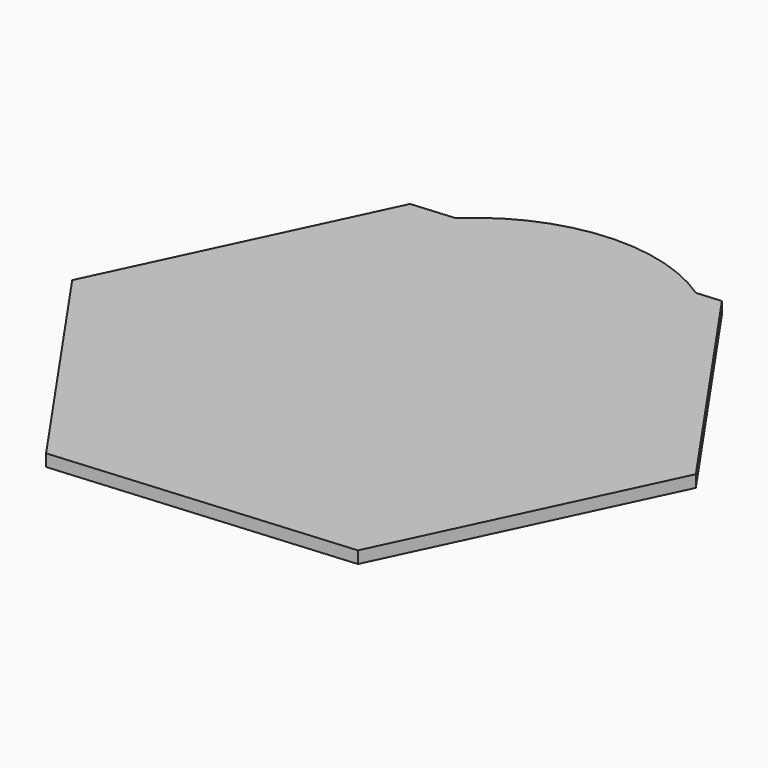
from build123d import *

# Parameters (mm, degrees)
F1_DEPTH = 2.54


with BuildPart() as f1:
    # F0 (on Top) → F1 (new body)
    with BuildSketch(Plane.XY):
        with BuildLine():
            ThreePointArc((-26.1758851748, 27.6845270018), (-15.0716418289, -34.9922221727), (38.1, 0))
            ThreePointArc((38.1, 0), (33.6457524536, 17.8766143839), (21.3244964919, 31.5733408015))
            Line((21.3244964919, 31.5733408015), (-26.1758851748, 27.6845270018))
        make_face()
        with BuildLine():
            ThreePointArc((21.3244964919, 31.5733408015), (33.6457524536, 17.8766143839), (38.1, 0))
            ThreePointArc((38.1, 0), (-15.0716418289, -34.9922221727), (-26.1758851748, 27.6845270018))
            Line((-26.1758851748, 27.6845270018), (-35.2166528413, 26.944367432))
            Line((-35.2166528413, 26.944367432), (-61.6861237744, -29.0024767323))
            Line((-61.6861237744, -29.0024767323), (-26.4694709331, -79.8991330672))
            Line((-26.4694709331, -79.8991330672), (35.2166528413, -74.8489452379))
            Line((35.2166528413, -74.8489452379), (61.6861237744, -18.9021010736))
            Line((61.6861237744, -18.9021010736), (26.4694709331, 31.9945552613))
            Line((26.4694709331, 31.9945552613), (21.3244964919, 31.5733408015))
        make_face()
        with BuildLine():
            Line((-26.1758851748, 27.6845270018), (21.3244964919, 31.5733408015))
            ThreePointArc((21.3244964919, 31.5733408015), (-3.108811868, 37.9729547016), (-26.1758851748, 27.6845270018))
        make_face()
    extrude(amount=F1_DEPTH)


solid = f1.part
